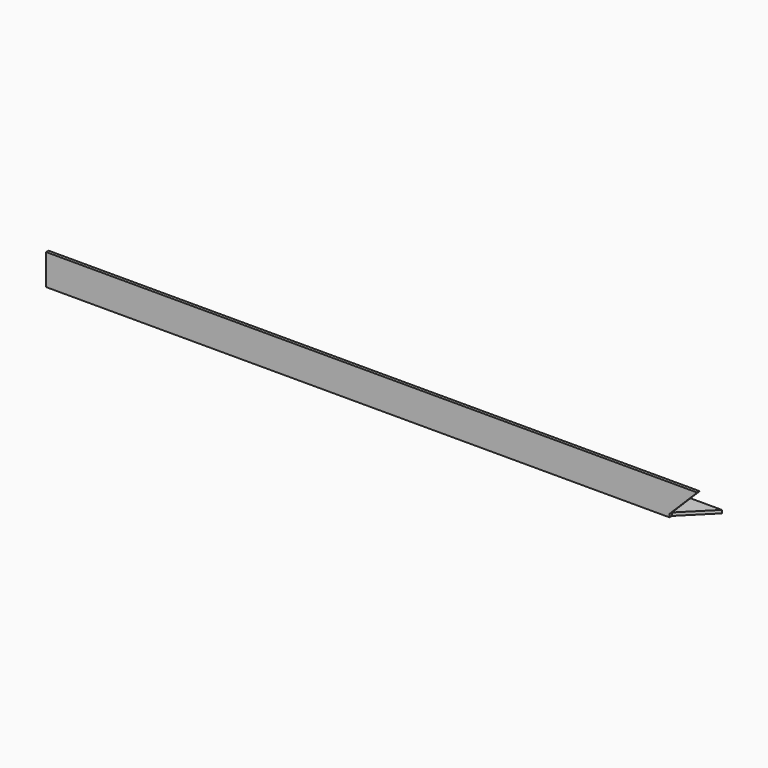
from build123d import *

# Parameters (mm, degrees)
F1_DEPTH = 1055
F4_DEPTH = 5
F5_DEPTH = 25
F6_DEPTH = 45


with BuildPart() as f1:
    # F0 (on Right) → F1 (new body)
    with BuildSketch(Plane.YZ):
        Polygon((0, 50), (0, 0), (50, 0), (50, 5), (5, 5), (5, 50), align=None)
    extrude(amount=F1_DEPTH)

    # F3 (on face) → F4 (cut)
    with BuildSketch(Plane.XY.offset(5)):
        Polygon((1055, 5), (1055, 50), (1010, 5), align=None)
    extrude(amount=-F4_DEPTH, mode=Mode.SUBTRACT)

    # F2 (on face) → F5 (cut)
    with BuildSketch(Plane(origin=(0, 5, 0), x_dir=(-1, 0, 0), z_dir=(0, 1, 0))):
        Polygon((-1055, 5), (-1010, 5), (-1055, 50), align=None)
    extrude(amount=-F5_DEPTH, mode=Mode.SUBTRACT)

    # F6 (cut): a face of the model
    f6_faces = [f1.faces().sort_by_distance(p)[0] for p in [
        (1055, 2.5, 2.5),
    ]]
    extrude(f6_faces, amount=-F6_DEPTH, mode=Mode.SUBTRACT)


solid = f1.part
